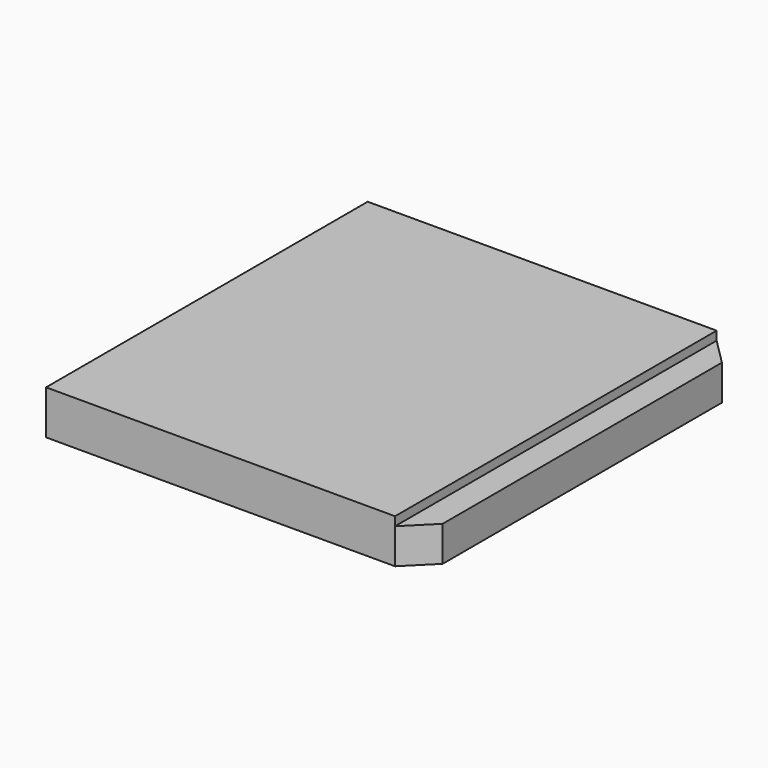
from build123d import *

# Parameters (mm, degrees)
F0_W     = 197.92
F0_H     = 228
F1_DEPTH = 25
F2_DEPTH = 20


with BuildPart() as f1:
    # F0 (on Top) → F1 (new body)
    with BuildSketch(Plane.XY):
        with Locations((98.96, 114)):
            Rectangle(F0_W, F0_H)
    extrude(amount=F1_DEPTH)

    # F0 (on Top) → F2 (join)
    with BuildSketch(Plane.XY):
        Polygon((197.92, 228), (197.92, 0), (212.92, 15), (212.92, 213), align=None)
    extrude(amount=F2_DEPTH)


solid = f1.part
